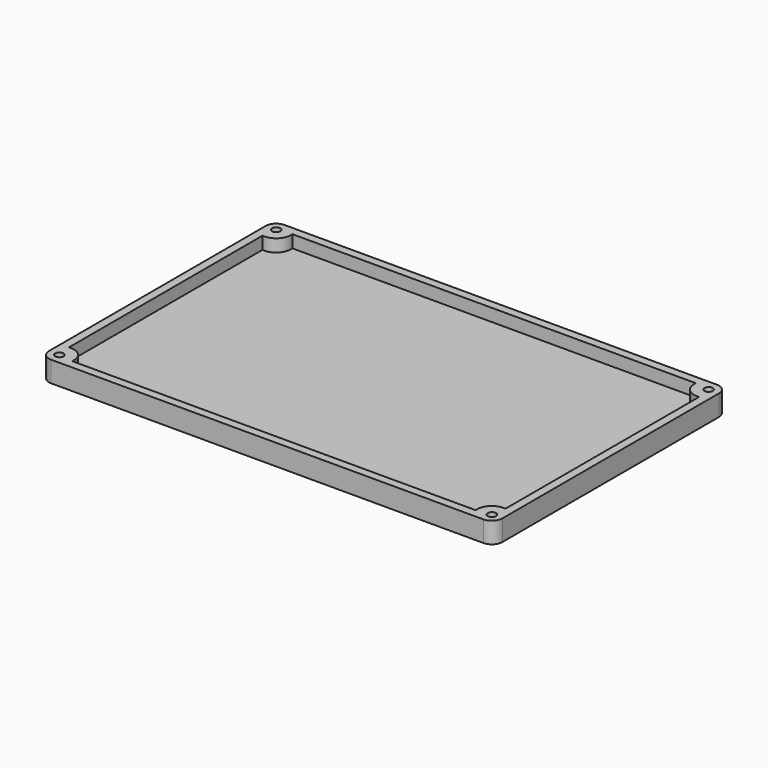
from build123d import *

# Parameters (mm, degrees)
PAD_DEPTH                     = 10
THICKNESS_T                   = -4
PAD001_DEPTH                  = 6
PAD001_MIRRORED_2_DEPTH       = 6
SKETCH003_R                   = 2
POCKET_DEPTH                  = 527.71231
SKETCH003_MIRRORED002_2_R     = 2
POCKET_MIRRORED002_2_DEPTH    = 527.71231
SKETCH004_R                   = 2.5
POCKET001_DEPTH               = 3
SKETCH004_MIRRORED004_2_R     = 2.5
POCKET001_MIRRORED004_2_DEPTH = 3


with BuildPart() as part:
    # Sketch → Pad (new body)
    with BuildSketch(Plane.XY):
        with BuildLine():
            Line((-103.75, -70), (103.75, -70))
            ThreePointArc((103.75, -70), (107.285534, -68.535534), (108.75, -65))
            Line((108.75, -65), (108.75, 65))
            ThreePointArc((108.75, 65), (107.285534, 68.535534), (103.75, 70))
            Line((103.75, 70), (-103.75, 70))
            ThreePointArc((-103.75, 70), (-107.285534, 68.535534), (-108.75, 65))
            Line((-108.75, 65), (-108.75, -65))
            ThreePointArc((-108.75, -65), (-107.285534, -68.535534), (-103.75, -70))
        make_face()
    extrude(amount=PAD_DEPTH)

    # Thickness
    thickness_openings = [part.faces().sort_by_distance(p)[0] for p in [
        (0, 0, 10),
    ]]
    offset(amount=THICKNESS_T, openings=thickness_openings)

    # Sketch002 (on Face10 of Thickness) → Pad001 (join)
    with BuildSketch(Plane.XY.offset(10)):
        with BuildLine():
            ThreePointArc((104.75, -58.071797), (98.800253, -60.050253), (96.821797, -66))
            Line((103.75, -66), (96.821797, -66))
            ThreePointArc((103.75, -66), (104.457107, -65.707107), (104.75, -65))
            Line((104.75, -65), (104.75, -58.071797))
        make_face()
    pad001 = extrude(amount=-PAD001_DEPTH)

    # Sketch002 Mirrored 2 → Pad001 Mirrored 2 (add)
    with BuildSketch(Plane(origin=(0, 0, 10), x_dir=(-1, 0, 0), z_dir=(0, 0, -1))):
        with BuildLine():
            ThreePointArc((104.75, -58.071797), (98.800253, -60.050253), (96.821797, -66))
            Line((103.75, -66), (96.821797, -66))
            ThreePointArc((103.75, -66), (104.457107, -65.707107), (104.75, -65))
            Line((104.75, -65), (104.75, -58.071797))
        make_face()
    pad001_mirrored_2 = extrude(amount=PAD001_MIRRORED_2_DEPTH)

    # Mirrored001: Pad001, Pad001 Mirrored 2 across XZ
    add(pad001.mirror(Plane.XZ))
    add(pad001_mirrored_2.mirror(Plane.XZ))

    # Sketch003 (on Face10 of MultiTransform) → Pocket (cut, through all)
    with BuildSketch(Plane.XY.offset(10)):
        with Locations((103.75, -65)):
            Circle(SKETCH003_R)
    pocket = extrude(amount=-POCKET_DEPTH, mode=Mode.SUBTRACT)

    # Sketch003 Mirrored002 2 → Pocket Mirrored002 2 (cut, through all)
    with BuildSketch(Plane(origin=(0, 0, 10), x_dir=(-1, 0, 0), z_dir=(0, 0, -1))):
        with Locations((103.75, -65)):
            Circle(SKETCH003_MIRRORED002_2_R)
    pocket_mirrored002_2 = extrude(amount=POCKET_MIRRORED002_2_DEPTH, mode=Mode.SUBTRACT)

    # Mirrored003: Pocket, Pocket Mirrored002 2 across XZ
    add(pocket.mirror(Plane.XZ), mode=Mode.SUBTRACT)
    add(pocket_mirrored002_2.mirror(Plane.XZ), mode=Mode.SUBTRACT)

    # Sketch004 (on Face4 of MultiTransform001) → Pocket001 (cut)
    with BuildSketch(Plane(origin=(0, 0, 0), x_dir=(1, 0, 0), z_dir=(0, 0, -1))):
        with Locations((103.75, -65)):
            Circle(SKETCH004_R)
    pocket001 = extrude(amount=-POCKET001_DEPTH, mode=Mode.SUBTRACT)

    # Sketch004 Mirrored004 2 → Pocket001 Mirrored004 2 (cut)
    with BuildSketch(Plane(origin=(0, 0, 0), x_dir=(-1, 0, 0), z_dir=(0, 0, 1))):
        with Locations((103.75, -65)):
            Circle(SKETCH004_MIRRORED004_2_R)
    pocket001_mirrored004_2 = extrude(amount=POCKET001_MIRRORED004_2_DEPTH, mode=Mode.SUBTRACT)

    # Mirrored005: Pocket001, Pocket001 Mirrored004 2 across XZ
    add(pocket001.mirror(Plane.XZ), mode=Mode.SUBTRACT)
    add(pocket001_mirrored004_2.mirror(Plane.XZ), mode=Mode.SUBTRACT)


solid = part.part
